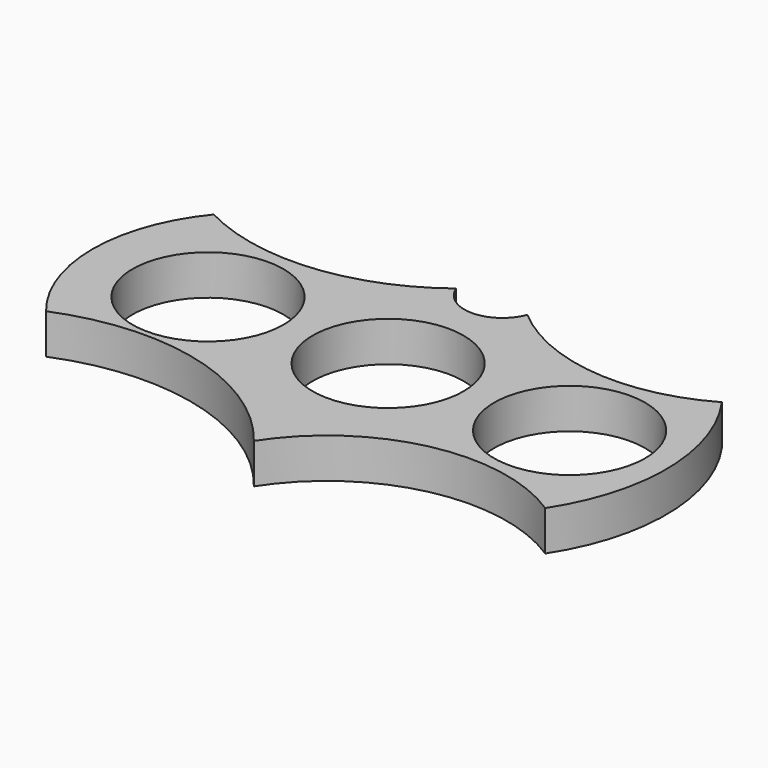
from build123d import *

# Parameters (mm, degrees)
F0_R     = 13.2
F1_DEPTH = 7


with BuildPart() as f1:
    # F0 (on Top) → F1 (new body)
    with BuildSketch(Plane.XY):
        with BuildLine():
            ThreePointArc((0, -29.344983), (19.80535, -15.673694), (43.478489, -20.002501))
            ThreePointArc((43.478489, -20.002501), (49.206112, -0.128879), (42.759836, 19.523399))
            ThreePointArc((42.759836, 19.523399), (23.743424, 15.457838), (5.868998, 23.116663))
            ThreePointArc((5.868998, 23.116663), (-0.359326, 18.787451), (-6.587651, 23.116663))
            ThreePointArc((-6.587651, 23.116663), (-25.824707, 15.535218), (-46.113547, 19.523399))
            ThreePointArc((-46.113547, 19.523399), (-52.652557, 1.197754), (-46.113547, -17.12789))
            ThreePointArc((-46.113547, -17.12789), (-21.000128, -15.473608), (0, -29.344983))
        make_face()
        with Locations((-31.500943, 0)):
            Circle(F0_R, mode=Mode.SUBTRACT)
        Circle(F0_R, mode=Mode.SUBTRACT)
        with Locations((31.740494, 0)):
            Circle(F0_R, mode=Mode.SUBTRACT)
    extrude(amount=F1_DEPTH)


solid = f1.part
